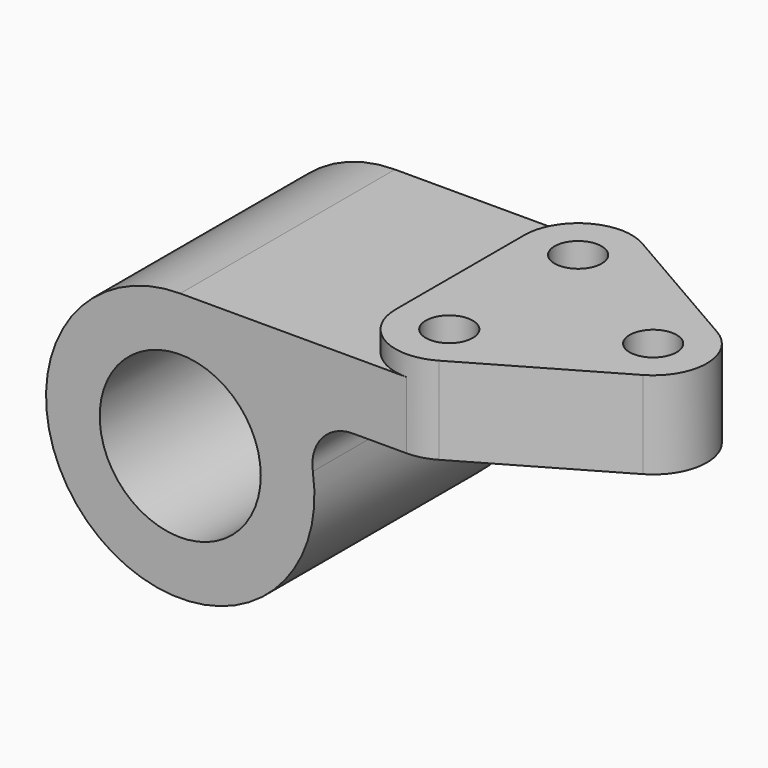
from build123d import *

# Parameters (mm, degrees)
F0_R     = 5.5626
F1_DEPTH = 20.6502
F2_R     = 19.05
F3_DEPTH = 31.75
F5_DEPTH = 68.2762


with BuildPart() as f1:
    # F0 (on Top) → F1 (new body)
    with BuildSketch(Plane.XY):
        with BuildLine():
            ThreePointArc((19.05, 30.048523), (6.35, 30.048523), (0, 19.05))
            Line((0, 19.05), (0, -19.05))
            ThreePointArc((0, -19.05), (6.35, -30.048523), (19.05, -30.048523))
            Line((19.05, -30.048523), (52.045568, -10.998523))
            ThreePointArc((52.045568, -10.998523), (58.395568, 0), (52.045568, 10.998523))
            Line((52.045568, 10.998523), (19.05, 30.048523))
        make_face()
        with Locations((12.7, -19.05)):
            Circle(F0_R, mode=Mode.SUBTRACT)
        with Locations((12.7, 19.05)):
            Circle(F0_R, mode=Mode.SUBTRACT)
        with Locations((45.695568, 0)):
            Circle(F0_R, mode=Mode.SUBTRACT)
    extrude(amount=F1_DEPTH)

    # F2 (on Front) → F3 (join, symmetric)
    with BuildSketch(Plane.XZ):
        with BuildLine():
            Line((12.7, 15.875), (-40.783613, 15.875))
            ThreePointArc((-40.783613, 15.875), (-61.435199, -39.990856), (-9.411603, -10.990385))
            ThreePointArc((-9.411603, -10.990385), (-7.234757, -3.329524), (0, 0))
            Line((0, 0), (12.7, 0))
            Line((12.7, 0), (12.7, 15.875))
        make_face()
        with Locations((-40.783613, -15.875)):
            Circle(F2_R, mode=Mode.SUBTRACT)
    extrude(amount=F3_DEPTH, both=True)

    # F4 (on face) → F5 (cut, through all)
    with BuildSketch(Plane.XY.offset(20.6502)):
        with BuildLine():
            Line((12.7, 13.4874), (12.7, 24.6126))
            ThreePointArc((12.7, 24.6126), (7.1374, 19.05), (12.7, 13.4874))
        make_face()
        with BuildLine():
            ThreePointArc((12.7, -13.4874), (7.1374, -19.05), (12.7, -24.6126))
            Line((12.7, -24.6126), (12.7, -13.4874))
        make_face()
    extrude(amount=-F5_DEPTH, mode=Mode.SUBTRACT)


solid = f1.part
